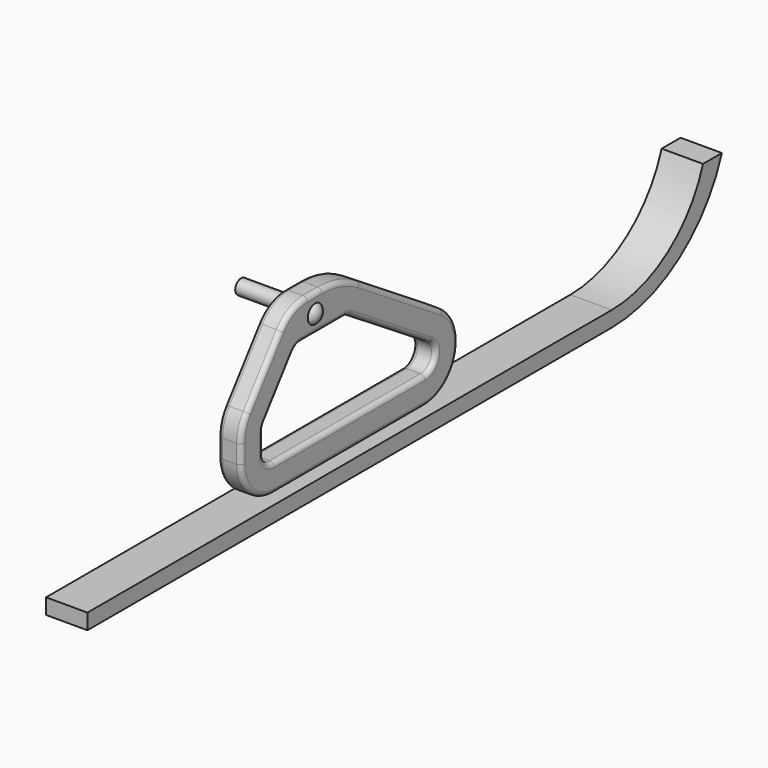
from build123d import *

# Parameters (mm, degrees)
F0_R          = 8
F0_R_2        = 6
F1_DEPTH      = 50
F3_START      = 5
F2_R          = 5
F3_DEPTH      = 25
F4_W          = 712.879806757
F4_H          = 16.9306248426
F5_DEPTH      = 40
F5_DEPTH_BACK = 5
F8_R          = 5


with BuildPart() as f1:
    # F0 (on Right) → F1 (new body)
    with BuildSketch(Plane.YZ):
        Circle(F0_R)
        Circle(F0_R_2, mode=Mode.SUBTRACT)
    extrude(amount=-F1_DEPTH)


with BuildPart() as f3:
    # F2 (on Right) → F3 (new body)
    with BuildSketch(Plane.YZ.offset(F3_START)):
        with BuildLine():
            Line((0, 20), (-10, 20))
            ThreePointArc((-10, 20), (-30.1246117975, 15.249223595), (-46, 2))
            Line((-46, 2), (-91, -58))
            ThreePointArc((-91, -58), (-97.6907484123, -70.7697505292), (-100, -85))
            Line((-100, -85), (-100, -105))
            ThreePointArc((-100, -105), (-86.8198051534, -136.8198051534), (-55, -150))
            Line((-55, -150), (0, -150))
            Line((0, -150), (150, -150))
            ThreePointArc((150, -150), (193.1864716304, -117.6462906859), (174.2732743972, -67.107940805))
            Line((174.2732743972, -67.107940805), (62.1160341556, 4.7388663059))
            ThreePointArc((62.1160341556, 4.7388663059), (37.1522707049, 16.1062564159), (10, 20))
            Line((10, 20), (0, 20))
        make_face()
        with BuildLine():
            Line((150, -120), (0, -120))
            Line((0, -120), (-55, -120))
            ThreePointArc((-55, -120), (-65.6066017178, -115.6066017178), (-70, -105))
            Line((-70, -105), (-70, -85))
            ThreePointArc((-70, -85), (-69.2302494708, -80.2565835097), (-67, -76))
            Line((-67, -76), (-29.5, -26))
            ThreePointArc((-29.5, -26), (-24.2082039325, -21.583592135), (-17.5, -20))
            Line((-17.5, -20), (0, -20))
            Line((0, -20), (40.7257381, -20))
            ThreePointArc((40.7257381, -20), (44.9411683287, -20.6045094565), (48.8168295658, -22.3693136017))
            Line((48.8168295658, -22.3693136017), (158.0910914657, -92.3693136017))
            ThreePointArc((158.0910914657, -92.3693136017), (164.3954905435, -109.2154302286), (150, -120))
        make_face(mode=Mode.SUBTRACT)
        Circle(F2_R, mode=Mode.SUBTRACT)
    extrude(amount=F3_DEPTH)

    # F8
    f8_edges = [f3.edges().sort_by_distance(p)[0] for p in [
        (17.5, -10, 20),
        (17.5, -46, 2),
        (5, -30.124612, 15.249224),
        (30, -30.124612, 15.249224),
        (30, 118.194654, -31.184537),
        (30, 37.152271, 16.106256),
        (30, 0, 20),
        (30, -68.5, -28),
        (30, -97.690748, -70.769751),
        (30, -100, -95),
        (30, -86.819805, -136.819805),
        (30, 47.5, -150),
        (30, 193.186472, -117.646291),
        (30, 164.395491, -109.21543),
        (30, 47.5, -120),
        (30, -65.606602, -115.606602),
        (30, -70, -95),
        (30, -69.230249, -80.256584),
        (30, -48.25, -51),
        (30, -24.208204, -21.583592),
        (30, 11.612869, -20),
        (30, 44.941168, -20.604509),
        (30, 103.453961, -57.369314),
        (30, -5, 0),
        (5, 118.194654, -31.184537),
        (5, 37.152271, 16.106256),
        (5, 0, 20),
        (5, -68.5, -28),
        (5, -97.690748, -70.769751),
        (5, -100, -95),
        (5, -86.819805, -136.819805),
        (5, 47.5, -150),
        (5, 193.186472, -117.646291),
        (5, 164.395491, -109.21543),
        (5, 47.5, -120),
        (5, -65.606602, -115.606602),
        (5, -70, -95),
        (5, -69.230249, -80.256584),
        (5, -48.25, -51),
        (5, -24.208204, -21.583592),
        (5, 11.612869, -20),
        (5, 44.941168, -20.604509),
        (5, 103.453961, -57.369314),
        (5, -5, 0),
    ]]
    fillet(f8_edges, radius=F8_R)


with BuildPart() as f5:
    # F4 (on Right) → F5 (new body, two sides)
    with BuildSketch(Plane.YZ) as f5_sk:
        with Locations((35.0141376257, -160.7511416078)):
            Rectangle(F4_W, F4_H)
        with BuildLine():
            ThreePointArc((515.5510306358, -62.8567039967), (467.9354623885, -127.599224317), (391.4540410042, -152.2858291864))
            Line((391.4540410042, -152.2858291864), (391.4540410042, -169.2164540291))
            ThreePointArc((391.4540410042, -169.2164540291), (483.3150454277, -139.9224878758), (541.2585139275, -62.8567039967))
            Line((541.2585139275, -62.8567039967), (515.5510306358, -62.8567039967))
        make_face()
    extrude(amount=F5_DEPTH)
    extrude(f5_sk.sketch, amount=-F5_DEPTH_BACK)


with BuildPart() as f7:
    # F6 (on Top) → F7 (revolve)
    with BuildSketch(Plane.XY):
        with BuildLine():
            Line((-29.5, 5), (-29.5, 0))
            Line((-29.5, 0), (35.5, 0))
            ThreePointArc((35.5, 0), (34.1803398875, 5.5901699437), (30.5, 10))
            Line((30.5, 10), (30.5, 5))
            Line((30.5, 5), (-29.5, 5))
        make_face()
    revolve(axis=Axis((3, 0, 0), (1, 0, 0)))


solid = Compound([f1.part, f3.part, f5.part, f7.part])
